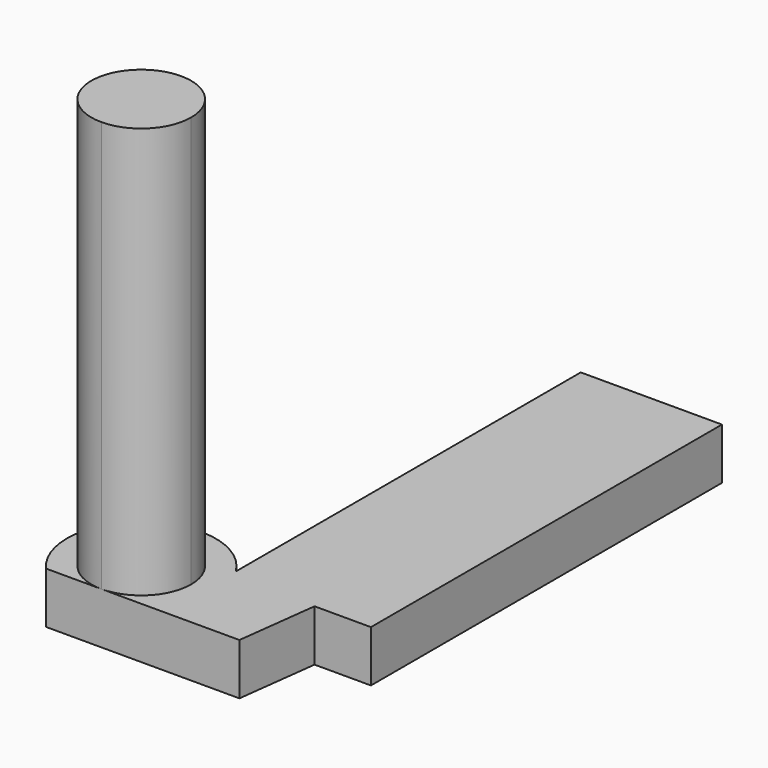
from build123d import *

# Parameters (mm, degrees)
F1_DEPTH = 25.4
F3_DEPTH = 203.2


with BuildPart() as f1:
    # F0 (on Top) → F1 (new body)
    with BuildSketch(Plane.XY):
        with BuildLine():
            Line((-250.315607, 114.301279), (-250.315607, -98.858923))
            ThreePointArc((-250.315607, -98.858923), (-303.716118, -88.612225), (-309.009016, -142.728716))
            Line((-309.009016, -142.728716), (-213.425234, -142.728716))
            Line((-213.425234, -142.728716), (-208.403498, -102.595732))
            Line((-208.403498, -102.595732), (-180.516213, -102.595732))
            Line((-180.516213, -102.595732), (-180.516213, 114.301279))
            Line((-180.516213, 114.301279), (-250.315607, 114.301279))
        make_face()
    extrude(amount=F1_DEPTH)

    # F2 (on face) → F3 (join)
    with BuildSketch(Plane.XY.offset(25.4)):
        with BuildLine():
            ThreePointArc((-281.687893, -142.728716), (-264.261301, -135.510385), (-257.04297, -118.083793))
            ThreePointArc((-257.04297, -118.083793), (-299.114485, -100.6572), (-281.687893, -142.728716))
        make_face()
    extrude(amount=F3_DEPTH)


solid = f1.part
